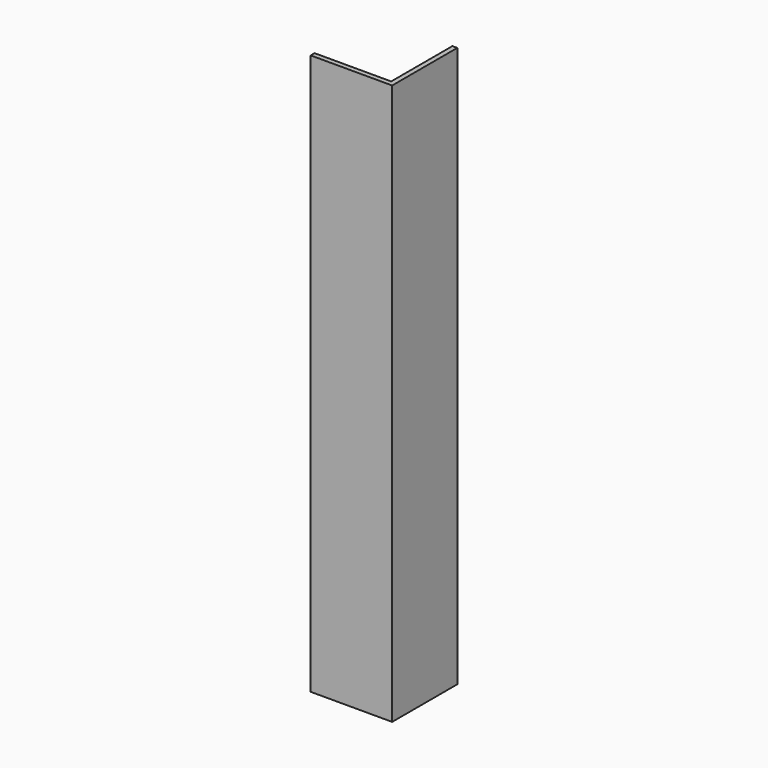
from build123d import *

# Parameters (mm, degrees)
F0_W     = 1.5
F0_H     = 1.5
F0_H_2   = 23.5
F0_W_2   = 23.5
F1_DEPTH = 172


with BuildPart() as f1:
    # F0 (on Top) → F1 (new body)
    with BuildSketch(Plane.XY):
        with Locations((11.75, 0)):
            Rectangle(F0_W, F0_H)
        with Locations((11.75, 12.5)):
            Rectangle(F0_W, F0_H_2)
        with Locations((-0.75, 0)):
            Rectangle(F0_W_2, F0_H)
    extrude(amount=-F1_DEPTH)


solid = f1.part
